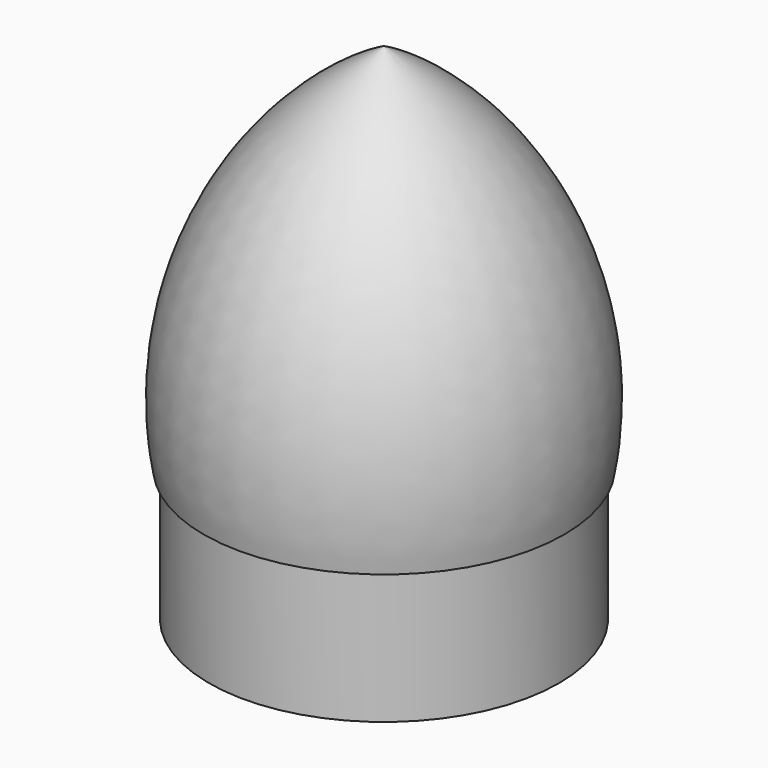
from build123d import *

# Parameters (mm, degrees)
F2_R     = 33
F3_DEPTH = 25


with BuildPart() as f1:
    # F0 (on Front) → F1 (revolve)
    with BuildSketch(Plane.XZ):
        with BuildLine():
            Line((0, 97.6409973204), (0, 27.6409973204))
            Line((0, 27.6409973204), (34, 27.6409973204))
            ThreePointArc((34, 27.6409973204), (28.4114946846, 68.1837233101), (0, 97.6409973204))
        make_face()
    revolve(axis=Axis((0, 0, 66.7174207047), (0, 0, 1)))

    # F2 (on face) → F3 (join)
    with BuildSketch(Plane(origin=(0, 0, 27.6409973204), x_dir=(1, 0, 0), z_dir=(0, 0, -1))):
        Circle(F2_R)
    extrude(amount=F3_DEPTH)


solid = f1.part
